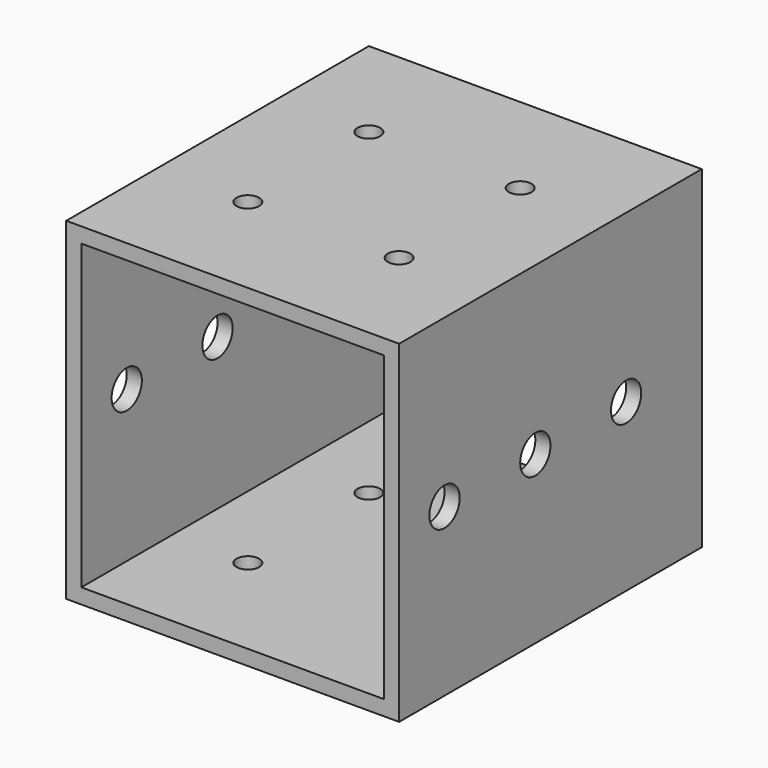
from build123d import *

# Parameters (mm, degrees)
F0_W     = 44
F0_H     = 44
F0_W_2   = 40
F0_H_2   = 40
F1_DEPTH = 50
F2_R     = 1.5
F3_DEPTH = 44.001
F4_R     = 2.5
F5_DEPTH = 44.001


with BuildPart() as f1:
    # F0 (on Front) → F1 (new body)
    with BuildSketch(Plane.XZ):
        Rectangle(F0_W, F0_H)
        Rectangle(F0_W_2, F0_H_2, mode=Mode.SUBTRACT)
    extrude(amount=F1_DEPTH)

    # F2 (on face) → F3 (cut, through all)
    with BuildSketch(Plane.XY.offset(22)):
        with Locations((10, -15)):
            Circle(F2_R)
        with Locations((10, -35)):
            Circle(F2_R)
        with Locations((-10, -35)):
            Circle(F2_R)
        with Locations((-10, -15)):
            Circle(F2_R)
    extrude(amount=-F3_DEPTH, mode=Mode.SUBTRACT)

    # F4 (on face) → F5 (cut, through all)
    with BuildSketch(Plane(origin=(-22, 0, 0), x_dir=(0, -1, 0), z_dir=(-1, 0, 0))):
        with Locations((12.5, 0)):
            Circle(F4_R)
        with Locations((27.5, 0)):
            Circle(F4_R)
        with Locations((42.5, 0)):
            Circle(F4_R)
    extrude(amount=-F5_DEPTH, mode=Mode.SUBTRACT)


solid = f1.part
